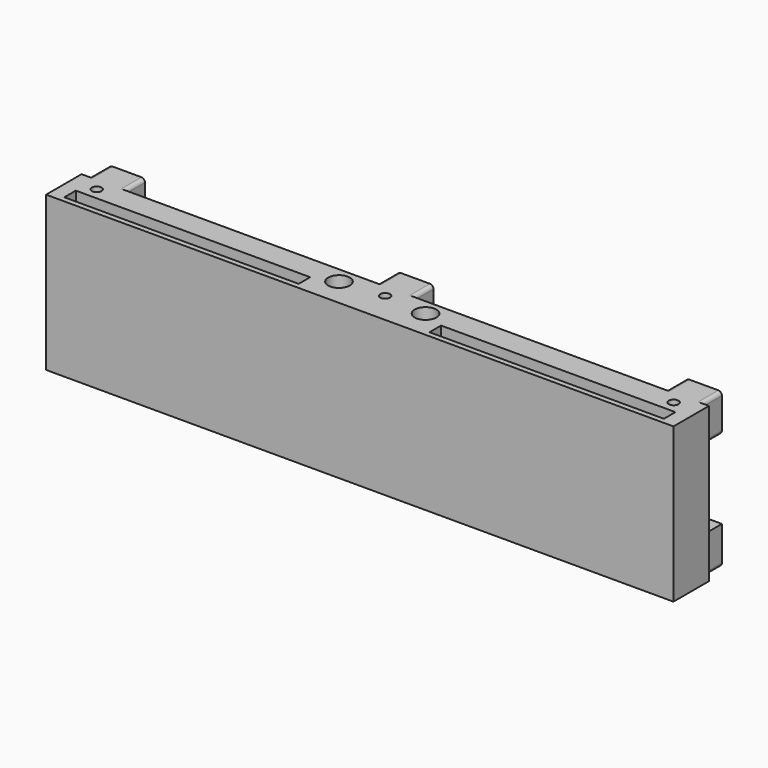
from build123d import *

# Parameters (mm, degrees)
F0_W      = 174
F0_H      = 12.3
F1_DEPTH  = 42.8
F2_W      = 10
F2_H      = 10.5
F3_DEPTH  = 7
F4_W      = 2
F4_H      = 4.5
F5_DEPTH  = 172.001
F6_W      = 65
F6_H      = 4
F6_R      = 1.35
F7_DEPTH  = 13
F8_R      = 1
F9_R      = 3
F10_DEPTH = 38


with BuildPart() as f1:
    # F0 (on Top) → F1 (new body)
    with BuildSketch(Plane.XY):
        with Locations((0, -6.15)):
            Rectangle(F0_W, F0_H)
    extrude(amount=F1_DEPTH)

    # F2 (on face) → F3 (join)
    with BuildSketch(Plane(origin=(0, 0, 0), x_dir=(-1, 0, 0), z_dir=(0, 1, 0))):
        with Locations((80, 37.55)):
            Rectangle(F2_W, F2_H)
        with Locations((0, 37.55)):
            Rectangle(F2_W, F2_H)
        with Locations((-80, 37.55)):
            Rectangle(F2_W, F2_H)
        with Locations((80, 5.25)):
            Rectangle(F2_W, F2_H)
        with Locations((0, 5.25)):
            Rectangle(F2_W, F2_H)
        with Locations((-80, 5.25)):
            Rectangle(F2_W, F2_H)
    extrude(amount=F3_DEPTH)

    # F4 (on face) → F5 (cut, through all)
    with BuildSketch(Plane.YZ.offset(85)):
        with Locations((1, 34.55)):
            Rectangle(F4_W, F4_H)
        with Locations((1, 2.25)):
            Rectangle(F4_W, F4_H)
    extrude(amount=-F5_DEPTH, mode=Mode.SUBTRACT)

    # F6 (on face) → F7 (cut)
    with BuildSketch(Plane.XY.offset(42.8)):
        with Locations((-50.65, -8.8)):
            Rectangle(F6_W, F6_H)
        with Locations((50.65, -8.8)):
            Rectangle(F6_W, F6_H)
        with Locations((-80, -3.5)):
            Circle(F6_R)
        with Locations((0, -3.5)):
            Circle(F6_R)
        with Locations((80, -3.5)):
            Circle(F6_R)
    extrude(amount=-F7_DEPTH, mode=Mode.SUBTRACT)

    # F8
    f8_edges = [f1.edges().sort_by_distance(p)[0] for p in [
        (-5, 3.5, 42.8),
        (5, 3.5, 42.8),
        (-75, 3.5, 42.8),
        (-85, 3.5, 42.8),
        (75, 3.5, 42.8),
        (85, 3.5, 42.8),
        (5, 3.5, 10.5),
        (-5, 3.5, 10.5),
        (-75, 3.5, 10.5),
        (-85, 3.5, 10.5),
        (85, 4.5, 32.3),
        (85, 4.5, 0),
        (75, 4.5, 0),
        (5, 4.5, 32.3),
        (5, 4.5, 0),
        (-5, 4.5, 0),
        (-75, 4.5, 32.3),
        (-75, 4.5, 0),
        (-85, 4.5, 0),
        (-85, 4.5, 32.3),
        (-5, 4.5, 32.3),
        (75, 4.5, 32.3),
    ]]
    fillet(f8_edges, radius=F8_R)

    # F9 (on face) → F10 (cut)
    with BuildSketch(Plane.XY.offset(42.8)):
        with Locations((12, -4.5)):
            Circle(F9_R)
        with Locations((-12, -4.5)):
            Circle(F9_R)
    extrude(amount=-F10_DEPTH, mode=Mode.SUBTRACT)


solid = f1.part
